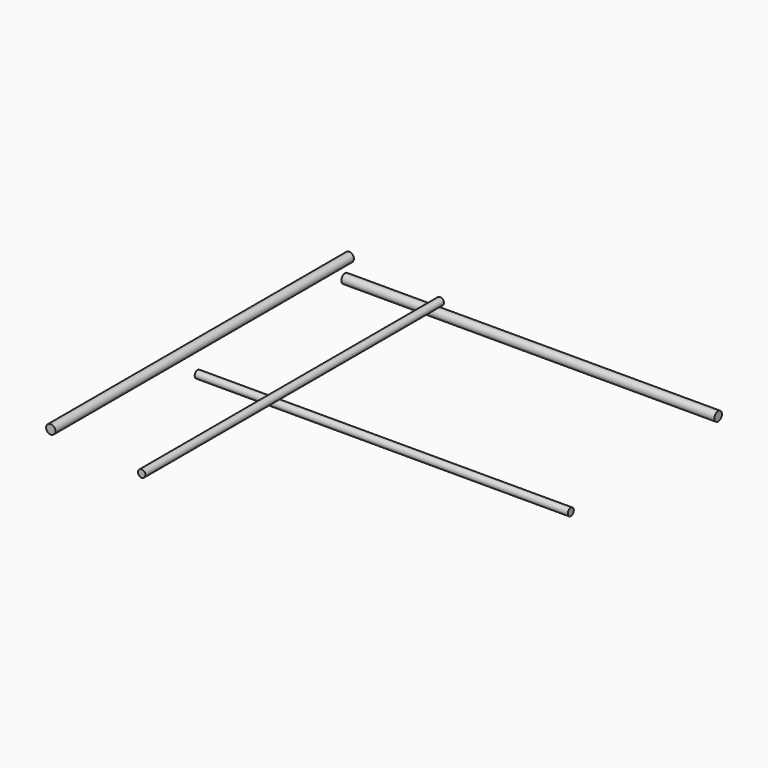
from build123d import *

# Parameters (mm, degrees)
F0_R     = 5
F1_DEPTH = 200
F2_R     = 5
F3_DEPTH = 200
F4_R     = 4
F5_DEPTH = 200
F6_R     = 4
F7_DEPTH = 200


with BuildPart() as f1:
    # F0 (on Front) → F1 (new body, symmetric)
    with BuildSketch(Plane.XZ):
        with Locations((-197.5, 20)):
            Circle(F0_R)
    extrude(amount=F1_DEPTH, both=True)


with BuildPart() as f1b:
    # F0 (on Front) → F1, piece 2 (new body, symmetric)
    with BuildSketch(Plane.XZ):
        with Locations((-197.5, -20)):
            Circle(F0_R)
    extrude(amount=F1_DEPTH, both=True)


with BuildPart() as f1c:
    # F0 (on Front) → F1, piece 3 (new body, symmetric)
    with BuildSketch(Plane.XZ):
        with Locations((197.5, -20)):
            Circle(F0_R)
    extrude(amount=F1_DEPTH, both=True)


with BuildPart() as f1d:
    # F0 (on Front) → F1, piece 4 (new body, symmetric)
    with BuildSketch(Plane.XZ):
        with Locations((197.5, 20)):
            Circle(F0_R)
    extrude(amount=F1_DEPTH, both=True)


with BuildPart() as f3:
    # F2 (on Right) → F3 (new body, symmetric)
    with BuildSketch(Plane.YZ):
        with Locations((-197.5, 0)):
            Circle(F2_R)
    extrude(amount=F3_DEPTH, both=True)


with BuildPart() as f3b:
    # F2 (on Right) → F3, piece 2 (new body, symmetric)
    with BuildSketch(Plane.YZ):
        with Locations((197.5, 0)):
            Circle(F2_R)
    extrude(amount=F3_DEPTH, both=True)


with BuildPart() as f5:
    # F4 (on Front) → F5 (new body, symmetric)
    with BuildSketch(Plane.XZ):
        with Locations((-100, 10)):
            Circle(F4_R)
    extrude(amount=F5_DEPTH, both=True)


with BuildPart() as f5b:
    # F4 (on Front) → F5, piece 2 (new body, symmetric)
    with BuildSketch(Plane.XZ):
        with Locations((100, 10)):
            Circle(F4_R)
    extrude(amount=F5_DEPTH, both=True)


with BuildPart() as f7:
    # F6 (on Right) → F7 (new body, symmetric)
    with BuildSketch(Plane.YZ):
        with Locations((0, -10)):
            Circle(F6_R)
    extrude(amount=F7_DEPTH, both=True)


solid = Compound([f1.part, f3b.part, f5.part, f7.part])
